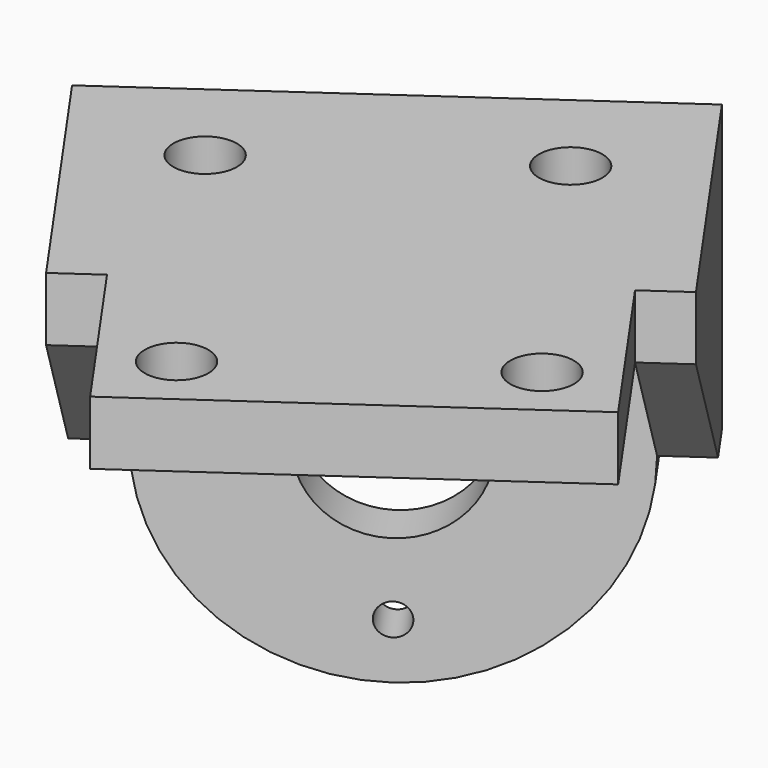
from build123d import *

# Parameters (mm, degrees)
SKETCH084_R             = 5
PAD062_DEPTH            = 3
SKETCH085_W             = 26
SKETCH085_H             = 4
PAD063_DEPTH            = 30
SKETCH086_R             = 2
POCKET029_DEPTH         = 31.001
SKETCH087_R             = 1
POCKET030_DEPTH         = 137.42322
POLARPATTERN012_COUNT   = 4
PAD104_DEPTH            = 3
PAD105_DEPTH            = 3
BODY038_PLACEMENT_ANGLE = 35


with BuildPart() as part:
    # Sketch084 → Pad062 (new body)
    with BuildSketch(Plane.XZ):
        with BuildLine():
            Line((-13, 18), (13, 18))
            Line((13, 18), (13, 0))
            ThreePointArc((-13, 0), (0, -13), (13, 0))
            Line((-13, 18), (-13, 0))
        make_face()
        Circle(SKETCH084_R, mode=Mode.SUBTRACT)
    extrude(amount=PAD062_DEPTH)

    # Sketch085 (on Face7 of Pad062) → Pad063 (join)
    with BuildSketch(Plane.XZ.offset(3)):
        with Locations((0, 16)):
            Rectangle(SKETCH085_W, SKETCH085_H)
    extrude(amount=PAD063_DEPTH)

    # Sketch086 (on Face5 of Pad063) → Pocket029 (cut, through all)
    with BuildSketch(Plane(origin=(0, 0, 18), x_dir=(-1, 0, 0), z_dir=(0, 0, 1))):
        with Locations((-9, 7)):
            Circle(SKETCH086_R)
        with Locations((9, 7)):
            Circle(SKETCH086_R)
        with Locations((-9, 29)):
            Circle(SKETCH086_R)
        with Locations((9, 29)):
            Circle(SKETCH086_R)
    extrude(amount=-POCKET029_DEPTH, mode=Mode.SUBTRACT)

    # Sketch087 (on Face4 of Pocket029) → Pocket030 (cut, through all)
    with BuildSketch(Plane(origin=(0, 0, 0), x_dir=(1, 0, 0), z_dir=(0, 1, 0))):
        with Locations((0, 9.5)):
            Circle(SKETCH087_R)
    pocket030 = extrude(amount=-POCKET030_DEPTH, mode=Mode.SUBTRACT)

    # PolarPattern012: Pocket030 ×4 about axis
    polarpattern012_axis = Axis((0, 0, 0), (0, 1, 0))
    for i in range(1, POLARPATTERN012_COUNT):
        add(pocket030.rotate(polarpattern012_axis, i * 360 / POLARPATTERN012_COUNT), mode=Mode.SUBTRACT)

    # Sketch263 (on Face7 of PolarPattern012) → Pad104 (join)
    with BuildSketch(Plane(origin=(-13, 0, 0), x_dir=(0, 0, -1), z_dir=(-1, 0, 0))):
        Polygon((0, 0), (-18, 0), (-18, 20), (-14, 20), (0, 3), align=None)
    extrude(amount=PAD104_DEPTH)

    # Sketch264 (on Face10 of Pad104) → Pad105 (join)
    with BuildSketch(Plane(origin=(13, 0, 0), x_dir=(0, 0, 1), z_dir=(1, 0, 0))):
        Polygon((0, 0), (18, 0), (18, 20), (14, 20), (0, 3), align=None)
    extrude(amount=PAD105_DEPTH)


with BuildPart() as part_1:
    # Body038 placement: moved
    add(part.part.moved(Location((-43.591809, 62.255555, -2))).rotate(Axis((-43.591809, 62.255555, -2), (0, 0, 1)), BODY038_PLACEMENT_ANGLE))


solid = part_1.part
